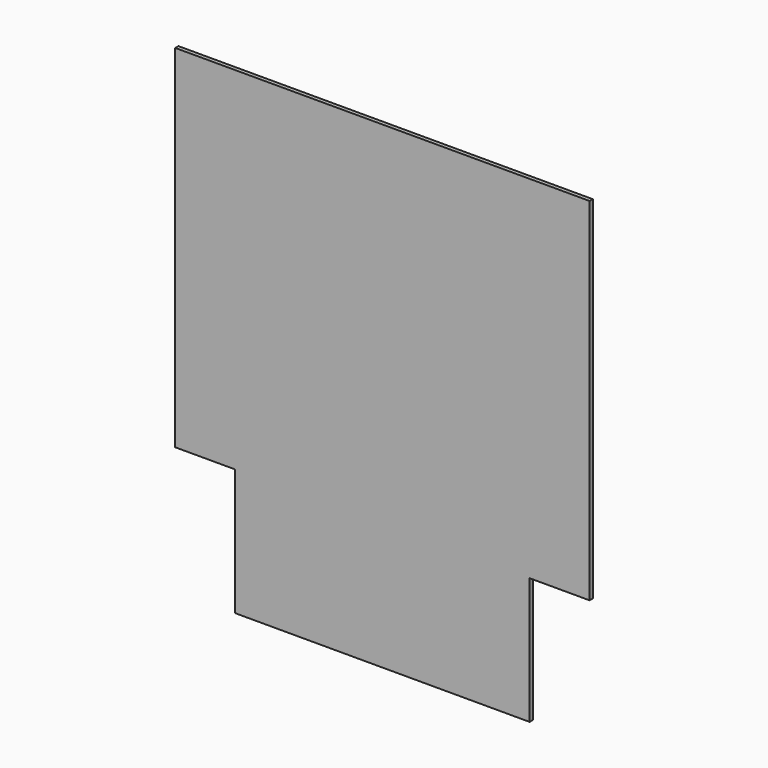
from build123d import *

# Parameters (mm, degrees)
F1_DEPTH = 5


with BuildPart() as f1:
    # F0 (on Front) → F1 (new body)
    with BuildSketch(Plane.XZ):
        Polygon((-260, 277.508397), (-260, 0), (-260, -163.703707), (-184.713803, -163.703707), (-184.713803, -322.491603), (0, -322.491603), (0, 277.508397), align=None)
        Polygon((260, 277.508397), (0, 277.508397), (0, -322.491603), (184.713803, -322.491603), (184.713803, -163.703707), (260, -163.703707), (260, 0), align=None)
    extrude(amount=F1_DEPTH)


solid = f1.part
